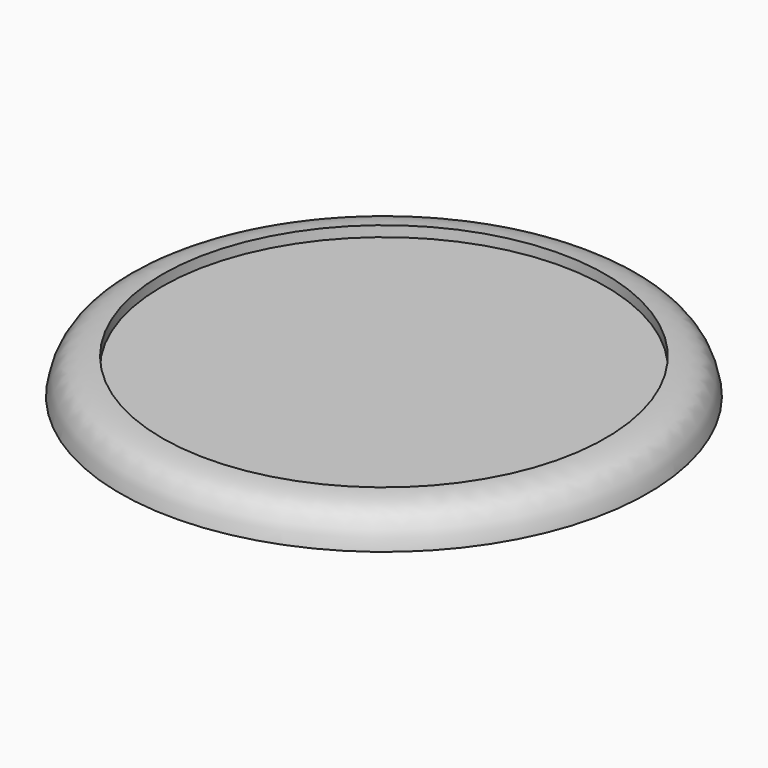
from build123d import *


with BuildPart() as f1:
    # F0 (on Front) → F1 (revolve)
    with BuildSketch(Plane.XZ):
        with BuildLine():
            Line((-25, 0), (0, 0))
            Line((0, 0), (0, 2.3))
            Line((0, 2.3), (-21, 2.3))
            Line((-21, 2.3), (-21, 3.3))
            add(Edge.make_bspline(
                [(-21, 3.3), (-23.653919, 3.3), (-24.651788, 2.197107), (-25, 0)],
                knots=[0, 0, 0, 0, 5.185557, 5.185557, 5.185557, 5.185557], degree=3))
        make_face()
    revolve(axis=Axis((0, 0, 1.15), (0, 0, -1)))


solid = f1.part
